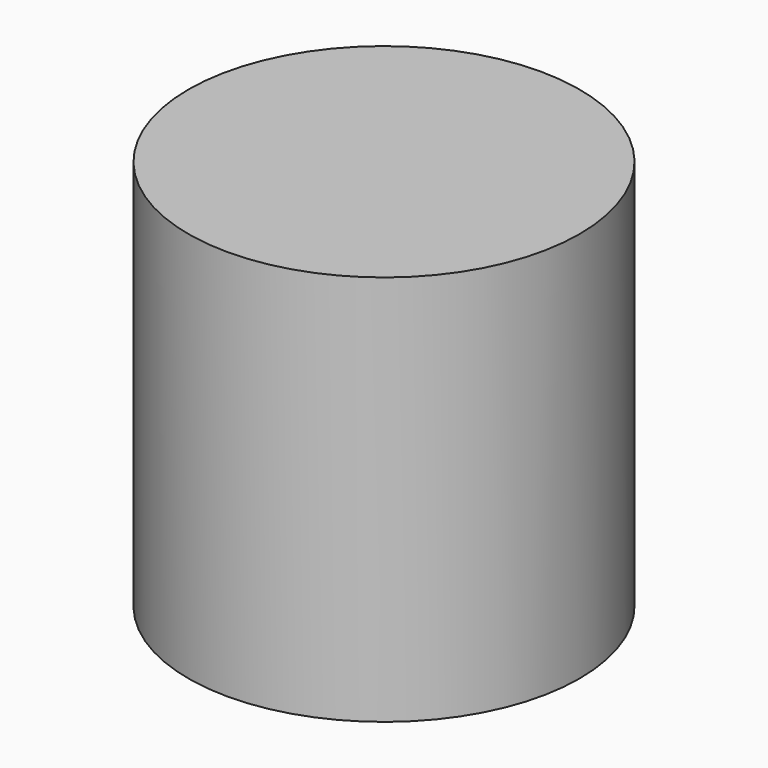
from build123d import *

# Parameters (mm, degrees)
SKETCH_R  = 25
PAD_DEPTH = 50


with BuildPart() as part:
    # Sketch → Pad (new body)
    with BuildSketch(Plane.XY):
        Circle(SKETCH_R)
    extrude(amount=PAD_DEPTH)


solid = part.part
